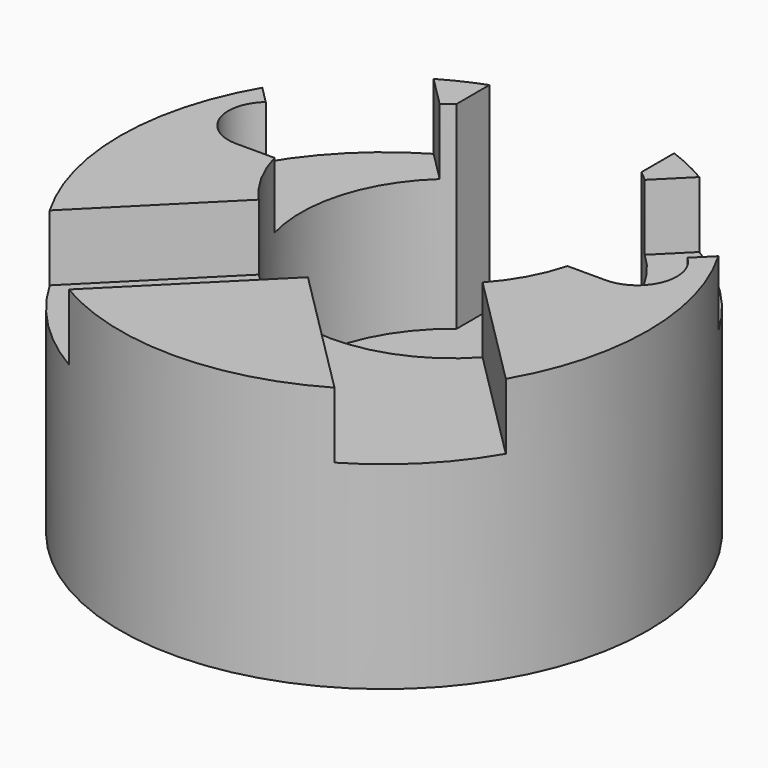
from build123d import *

# Parameters (mm, degrees)
F0_R      = 25.4
F1_DEPTH  = 25.4
F2_R      = 14.605
F3_DEPTH  = 19.05
F4_W      = 7.62
F4_H      = 3.81
F5_DEPTH  = 25.401
F8_DEPTH  = 6.35
F9_W      = 17.78
F9_H      = 6.827337
F10_DEPTH = 19.05
F12_DEPTH = 6.35


with BuildPart() as f1:
    # F0 (on Top) → F1 (new body)
    with BuildSketch(Plane.XY):
        Circle(F0_R)
    extrude(amount=F1_DEPTH)

    # F2 (on face) → F3 (cut)
    with BuildSketch(Plane.XY.offset(25.4)):
        with Locations((0, 8.255)):
            Circle(F2_R)
    extrude(amount=-F3_DEPTH, mode=Mode.SUBTRACT)

    # F4 (on Front) → F5 (cut, through all)
    with BuildSketch(Plane.XZ):
        with Locations((0, 23.495)):
            Rectangle(F4_W, F4_H)
    extrude(amount=-F5_DEPTH, mode=Mode.SUBTRACT)

    # F7 (on face) → F8 (cut)
    with BuildSketch(Plane.XY.offset(25.4)):
        Polygon((17.960513, 27.120372), (0, 9.159861), (-17.960512, 27.120374), (-27.120373, 17.960513), (-9.159862, 0), (-27.120374, -17.960511), (-17.960513, -27.120372), (0, -9.159861), (17.960512, -27.120374), (27.120373, -17.960513), (9.159862, 0), (27.120374, 17.960511), align=None)
    extrude(amount=-F8_DEPTH, mode=Mode.SUBTRACT)

    # F9 (on face) → F10 (cut, through all)
    with BuildSketch(Plane.XY.offset(25.4)):
        with Locations((0, 23.256331)):
            Rectangle(F9_W, F9_H)
    extrude(amount=-F10_DEPTH, mode=Mode.SUBTRACT)

    # F11 (on face) → F12 (cut, through all)
    with BuildSketch(Plane.XY.offset(25.4)):
        with BuildLine():
            Line((17.78, 12.065), (-17.78, 12.065))
            ThreePointArc((-17.78, 12.065), (-21.59, 8.255), (-17.78, 4.445))
            Line((-17.78, 4.445), (17.78, 4.445))
            ThreePointArc((17.78, 4.445), (21.59, 8.255), (17.78, 12.065))
        make_face()
    extrude(amount=-F12_DEPTH, mode=Mode.SUBTRACT)


solid = f1.part
